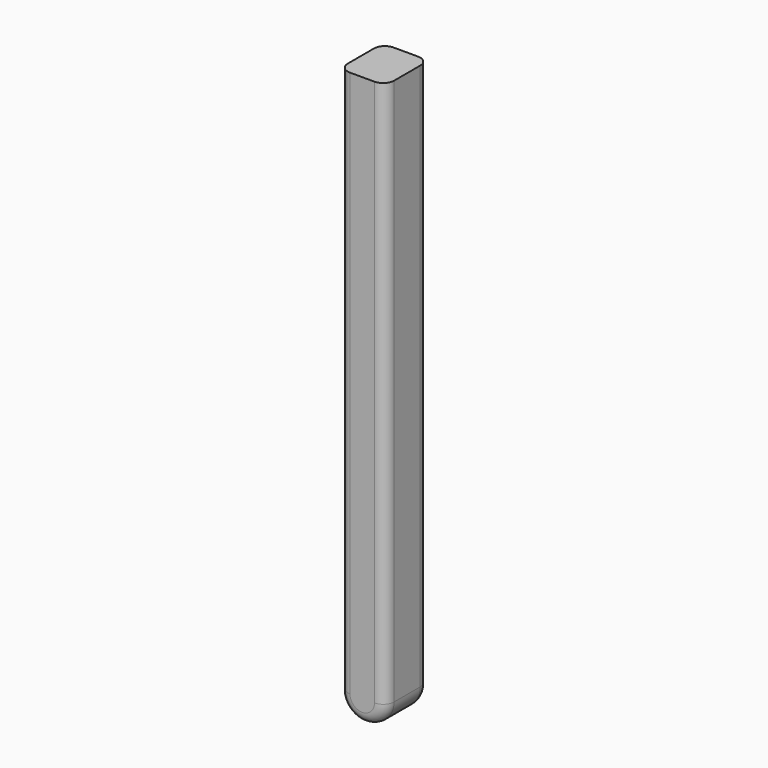
from build123d import *

# Parameters (mm, degrees)
F1_DEPTH = 25.4
F2_R     = 5.08


with BuildPart() as f1:
    # F0 (on Front) → F1 (new body)
    with BuildSketch(Plane.XZ):
        with BuildLine():
            Line((-36.958285, 219.083652), (-36.958285, -36.202714))
            ThreePointArc((-36.958285, -36.202714), (-26.154139, -47.006859), (-15.349993, -36.202714))
            Line((-15.349993, -36.202714), (-15.349993, 219.083652))
            Line((-15.349993, 219.083652), (-36.958285, 219.083652))
        make_face()
    extrude(amount=F1_DEPTH)

    # F2
    f2_edges = [f1.edges().sort_by_distance(p)[0] for p in [
        (-36.958285, -12.7, -36.202714),
        (-15.349993, -12.7, -36.202714),
        (-26.154139, 0, -47.006859),
        (-26.154139, -25.4, -47.006859),
    ]]
    fillet(f2_edges, radius=F2_R)


solid = f1.part
